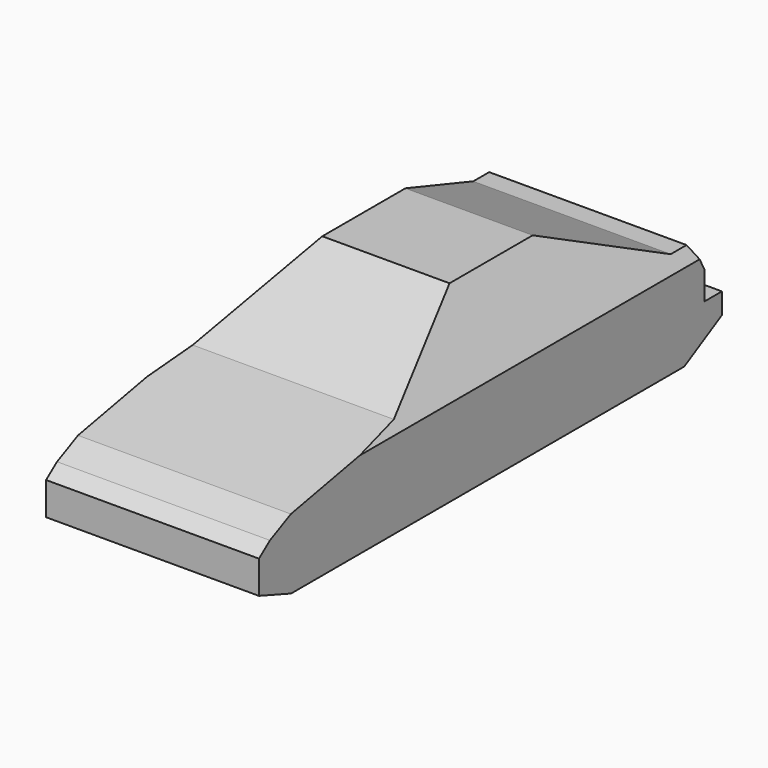
from build123d import *

# Parameters (mm, degrees)
F1_DEPTH = 150.622
F3_START = 88.392
F3_DEPTH = 114.1679836892


with BuildPart() as f1:
    # F0 (on Front) → F1 (new body)
    with BuildSketch(Plane.XZ):
        Polygon((-25.7749836892, 0), (0, 0), (25.7749836892, 0), (25.7749836892, 24.2791596506), (6.3844995154, 56.1167374253), (0, 56.1167374253), (-6.3844995154, 56.1167374253), (-25.7749836892, 24.2791596506), align=None)
    extrude(amount=F1_DEPTH)

    # F2 (on Right) → F3 (intersect)
    with BuildSketch(Plane.YZ.offset(F3_START)):
        Polygon((-151.6052931547, 13.9350751415), (-151.6052931547, 7.0942197926), (-140.8825235742, 3.293744754), (-21.8824129552, 3.293744754), (-10.4809878394, 9.627870284), (-10.4809878394, 14.6951703355), (-15.693005628, 14.6951703355), (-15.693005628, 21.3516374031), (-18.8420340419, 27.3634195328), (-23.6559715122, 27.3634195328), (-54.8198632896, 41.2984937429), (-79.972098349, 41.2984937429), (-108.0265119672, 26.6033262014), (-140.9639567137, 20.2692002058), (-147.2980827093, 17.2288194299), align=None)
    extrude(amount=-F3_DEPTH, mode=Mode.INTERSECT)


solid = f1.part
